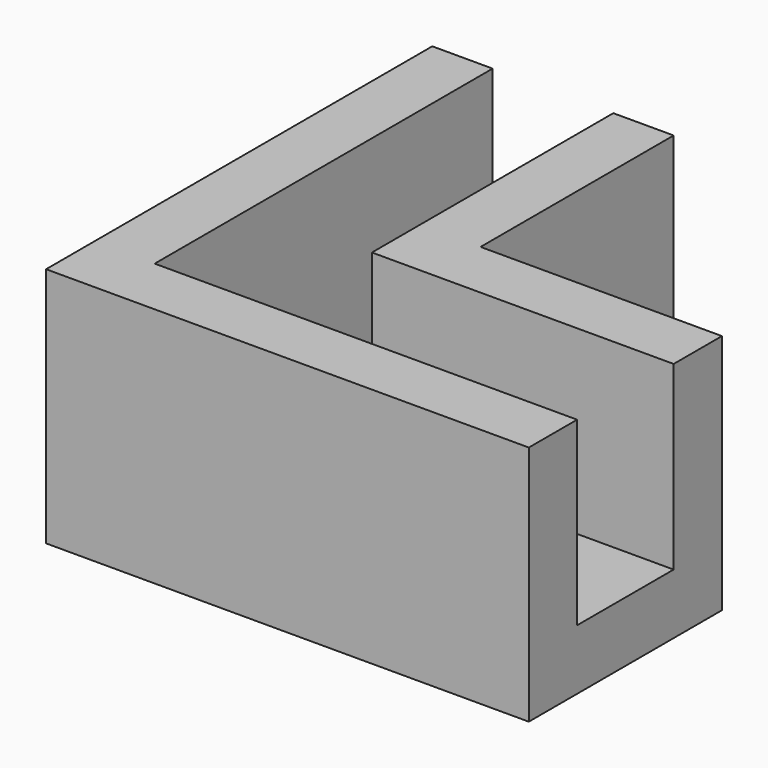
from build123d import *

# Parameters (mm, degrees)
F1_DEPTH = 19.05
F2_DEPTH = 6.35


with BuildPart() as f1:
    # F0 (on Top) → F1 (new body)
    with BuildSketch(Plane.XY):
        Polygon((50.8, 0), (25.4, 0), (25.4, 25.4), (19.05, 25.4), (19.05, -6.35), (50.8, -6.35), align=None)
    extrude(amount=F1_DEPTH)



with BuildPart() as f1b:
    # F0 (on Top) → F1, piece 2 (new body)
    with BuildSketch(Plane.XY):
        Polygon((50.8, -25.4), (50.8, -19.05), (6.35, -19.05), (6.35, 25.4), (0, 25.4), (0, 0), (0, -25.4), (25.4, -25.4), align=None)
    extrude(amount=F1_DEPTH)


with BuildPart() as f1_1:
    add(f1.part)

    add(f1b.part)  # F2 merges F1b
    # F0 (on Top) → F2 (join)
    with BuildSketch(Plane.XY):
        Polygon((50.8, -19.05), (50.8, -6.35), (19.05, -6.35), (19.05, 25.4), (6.35, 25.4), (6.35, -19.05), align=None)
        Polygon((50.8, 0), (25.4, 0), (25.4, 25.4), (19.05, 25.4), (19.05, -6.35), (50.8, -6.35), align=None)
        Polygon((50.8, -25.4), (50.8, -19.05), (6.35, -19.05), (6.35, 25.4), (0, 25.4), (0, 0), (0, -25.4), (25.4, -25.4), align=None)
    extrude(amount=-F2_DEPTH)


with BuildPart() as f1_2:
    # F3: moved
    add(f1_1.part.moved(Location((0, 0, 6.35))))


solid = f1_2.part
